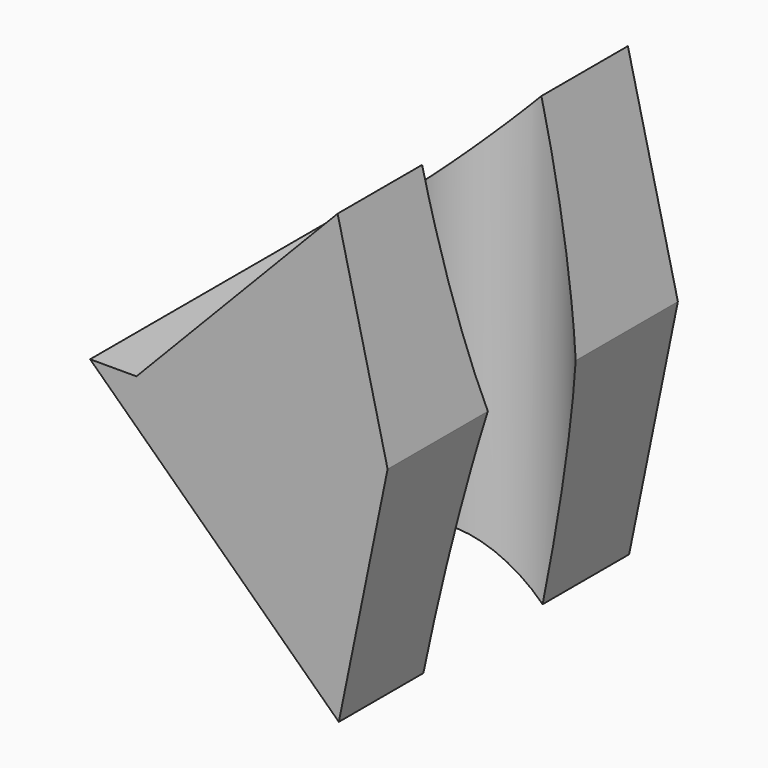
from build123d import *

# Parameters (mm, degrees)
F1_DEPTH = 127
F2_R     = 26.0981
F3_DEPTH = 7620


with BuildPart() as f1:
    # F0 (on Front) → F1 (new body)
    with BuildSketch(Plane.XZ):
        Polygon((-17.49552, 73.039196), (-87.904312, 0), (-104.119673, 0), (-17.068796, -83.443835), (0, 0), align=None)
    extrude(amount=F1_DEPTH)

    # F2 (on Top) → F3 (cut, symmetric)
    with BuildSketch(Plane.XY):
        with Locations((-17.652176, -63.927725)):
            Circle(F2_R)
    extrude(amount=F3_DEPTH, both=True, mode=Mode.SUBTRACT)


solid = f1.part
